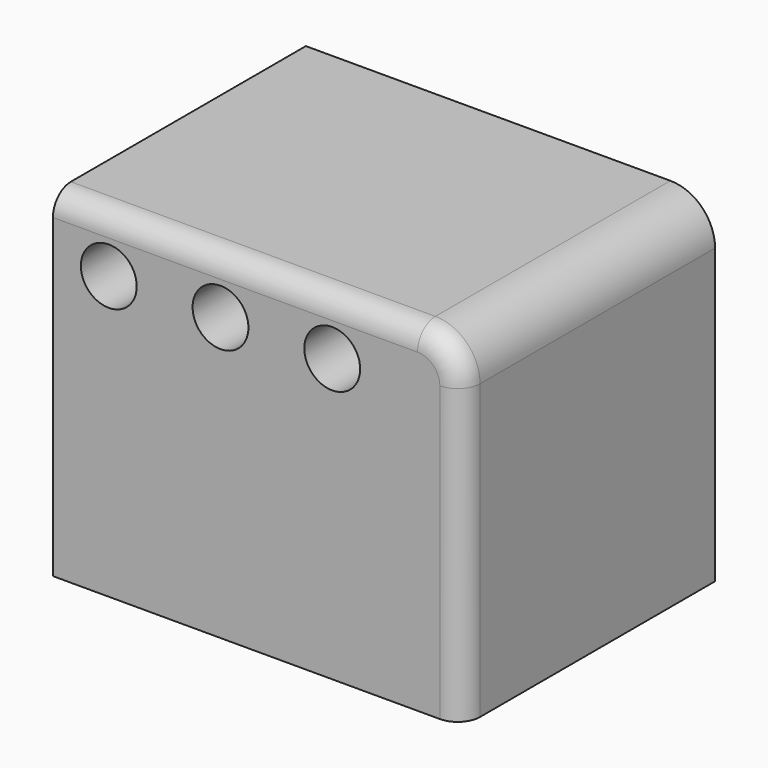
from build123d import *

# Parameters (mm, degrees)
F0_W     = 93.043737
F0_H     = 76.870489
F0_R     = 6.35
F1_DEPTH = 71.87439
F2_R     = 10.16
F3_R     = 5.08


with BuildPart() as f1:
    # F0 (on Front) → F1 (new body)
    with BuildSketch(Plane.XZ):
        with Locations((3.710334, -1.617325)):
            Rectangle(F0_W, F0_H)
        with Locations((-30.111535, 24.117919)):
            Circle(F0_R, mode=Mode.SUBTRACT)
        with Locations((-4.711535, 24.117919)):
            Circle(F0_R, mode=Mode.SUBTRACT)
        with Locations((20.688465, 24.117919)):
            Circle(F0_R, mode=Mode.SUBTRACT)
    extrude(amount=F1_DEPTH)

    # F2
    f2_edges = [f1.edges().sort_by_distance(p)[0] for p in [
        (50.232202, -35.937195, 36.817919),
    ]]
    fillet(f2_edges, radius=F2_R)

    # F3
    f3_edges = [f1.edges().sort_by_distance(p)[0] for p in [
        (-1.369667, -71.87439, 36.817919),
    ]]
    fillet(f3_edges, radius=F3_R)


solid = f1.part
